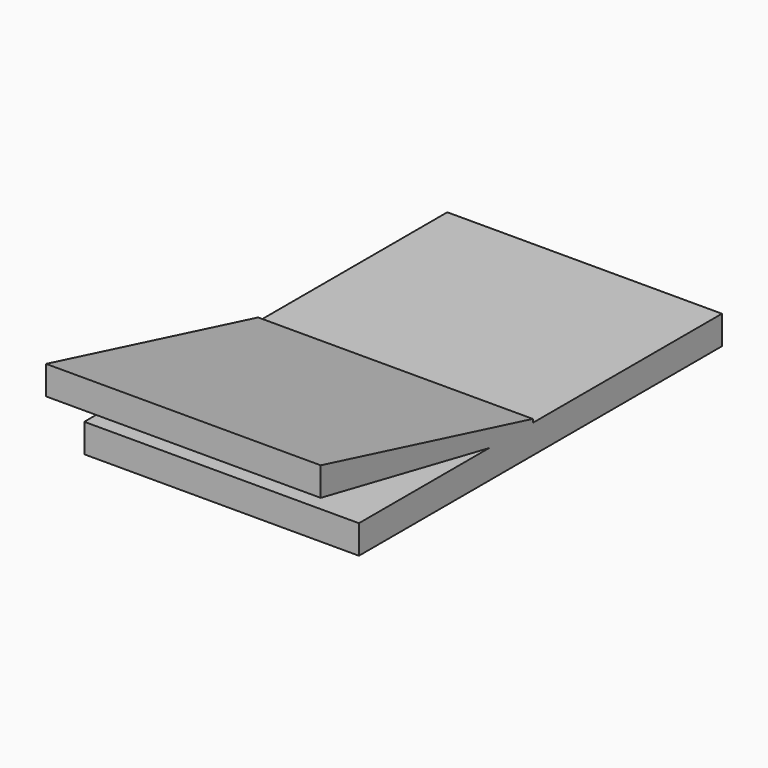
from build123d import *

# Parameters (mm, degrees)
PAD005_DEPTH           = 115
SKETCH004_W            = 115
SKETCH004_H            = 12
PAD004_DEPTH           = 190
FUSION_PLACEMENT_ANGLE = 180


with BuildPart() as body004:
    # CopySketch005 → Pad005 (new body)
    with BuildSketch(Plane.YZ):
        Polygon((-91, -17.296696), (20, 4.703304), (20, 16.703304), (-91, -11.296696), align=None)
    extrude(amount=PAD005_DEPTH)


with BuildPart() as fusion:
    # Sketch004 → Pad004 (new body)
    with BuildSketch(Plane.XZ):
        with Locations((57.5, -18.765628)):
            Rectangle(SKETCH004_W, SKETCH004_H)
    extrude(amount=PAD004_DEPTH)

    # Fusion: union Body004
    add(body004.part)


with BuildPart() as fusion_1:
    # Fusion placement: moved
    add(fusion.part.moved(Location((72, -332, 0))).rotate(Axis((72, -332, 0), (0, 0, 1)), FUSION_PLACEMENT_ANGLE))


solid = fusion_1.part
